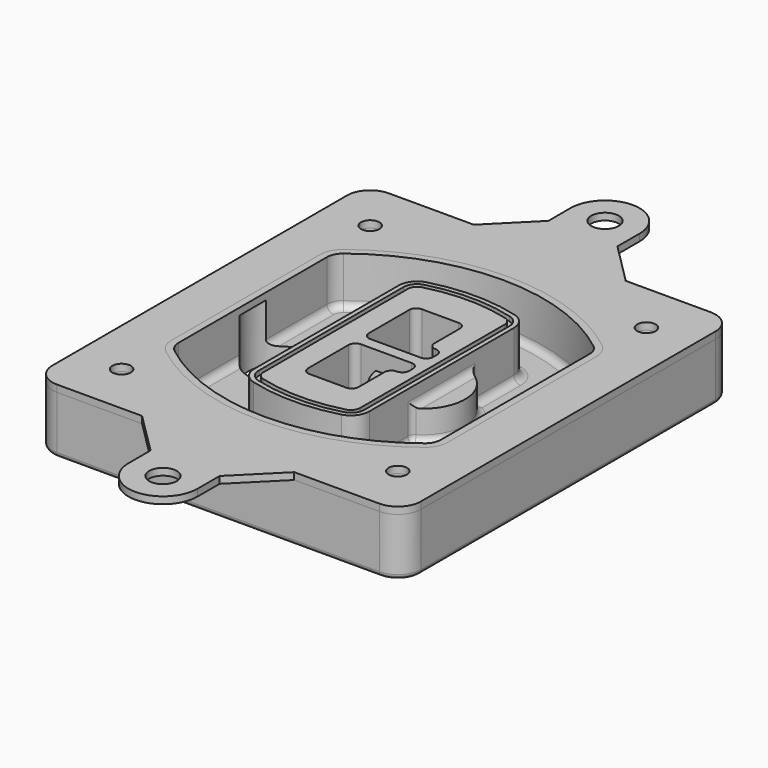
from build123d import *

# Parameters (mm, degrees)
F0_R      = 4
F1_DEPTH  = 25
F2_DEPTH  = 3
F3_DEPTH  = 18
F5_DEPTH  = 21
F6_DEPTH  = 2
F8_DEPTH  = 20
F9_DEPTH  = 16
F10_DEPTH = 25
F7_R      = 6
F7_R_2    = 4
F11_DEPTH = 6
F13_DEPTH = 9
F14_R     = 3
F15_R     = 2
F16_R     = 6
F16_R_2   = 4
F17_DEPTH = 3


with BuildPart() as f1:
    # F0 (on Top) → F1 (new body)
    with BuildSketch(Plane.XY):
        with BuildLine():
            ThreePointArc((-80, -80), (-77.0710678119, -87.0710678119), (-70, -90))
            Line((-70, -90), (70, -90))
            ThreePointArc((70, -90), (77.0710678119, -87.0710678119), (80, -80))
            Line((80, -80), (80, 80))
            ThreePointArc((80, 80), (77.0710678119, 87.0710678119), (70, 90))
            Line((70, 90), (-70, 90))
            ThreePointArc((-70, 90), (-77.0710678119, 87.0710678119), (-80, 80))
            Line((-80, 80), (-80, -80))
        make_face()
        with Locations((-60, -67.5)):
            Circle(F0_R, mode=Mode.SUBTRACT)
        with Locations((60, -67.5)):
            Circle(F0_R, mode=Mode.SUBTRACT)
        with Locations((-60, 67.5)):
            Circle(F0_R, mode=Mode.SUBTRACT)
        with BuildLine():
            ThreePointArc((-64, 40.2934422872), (-62.5820384798, 46.4328484224), (-58.6153846154, 51.3286200352))
            ThreePointArc((-58.6153846154, 51.3286200352), (0, 71.5), (58.6153846154, 51.3286200352))
            ThreePointArc((58.6153846154, 51.3286200352), (62.5820384798, 46.4328484224), (64, 40.2934422872))
            Line((64, 40.2934422872), (64, -40.2934422872))
            ThreePointArc((64, -40.2934422872), (62.5820384798, -46.4328484224), (58.6153846154, -51.3286200352))
            ThreePointArc((58.6153846154, -51.3286200352), (0, -71.5), (-58.6153846154, -51.3286200352))
            ThreePointArc((-58.6153846154, -51.3286200352), (-62.5820384798, -46.4328484224), (-64, -40.2934422872))
            Line((-64, -40.2934422872), (-64, 40.2934422872))
        make_face(mode=Mode.SUBTRACT)
        with Locations((60, 67.5)):
            Circle(F0_R, mode=Mode.SUBTRACT)
        with BuildLine():
            ThreePointArc((58.6153846154, 51.3286200352), (0, 71.5), (-58.6153846154, 51.3286200352))
            ThreePointArc((-58.6153846154, 51.3286200352), (-62.5820384798, 46.4328484224), (-64, 40.2934422872))
            Line((-64, 40.2934422872), (-64, -40.2934422872))
            ThreePointArc((-64, -40.2934422872), (-62.5820384798, -46.4328484224), (-58.6153846154, -51.3286200352))
            ThreePointArc((-58.6153846154, -51.3286200352), (0, -71.5), (58.6153846154, -51.3286200352))
            ThreePointArc((58.6153846154, -51.3286200352), (62.5820384798, -46.4328484224), (64, -40.2934422872))
            Line((64, -40.2934422872), (64, 40.2934422872))
            ThreePointArc((64, 40.2934422872), (62.5820384798, 46.4328484224), (58.6153846154, 51.3286200352))
        make_face()
        with BuildLine():
            Line((-60, -40.2934422872), (-60, 40.2934422872))
            ThreePointArc((-60, 40.2934422872), (-58.9871703427, 44.6787323838), (-56.1538461538, 48.1757121072))
            ThreePointArc((-56.1538461538, 48.1757121072), (0, 67.5), (56.1538461538, 48.1757121072))
            ThreePointArc((56.1538461538, 48.1757121072), (58.9871703427, 44.6787323838), (60, 40.2934422872))
            Line((60, 40.2934422872), (60, -40.2934422872))
            ThreePointArc((60, -40.2934422872), (58.9871703427, -44.6787323838), (56.1538461538, -48.1757121072))
            ThreePointArc((56.1538461538, -48.1757121072), (0, -67.5), (-56.1538461538, -48.1757121072))
            ThreePointArc((-56.1538461538, -48.1757121072), (-58.9871703427, -44.6787323838), (-60, -40.2934422872))
        make_face(mode=Mode.SUBTRACT)
        with BuildLine():
            ThreePointArc((-56.1538461538, 48.1757121072), (-58.9871703427, 44.6787323838), (-60, 40.2934422872))
            Line((-60, 40.2934422872), (-60, -40.2934422872))
            ThreePointArc((-60, -40.2934422872), (-58.9871703427, -44.6787323838), (-56.1538461538, -48.1757121072))
            ThreePointArc((-56.1538461538, -48.1757121072), (0, -67.5), (56.1538461538, -48.1757121072))
            ThreePointArc((56.1538461538, -48.1757121072), (58.9871703427, -44.6787323838), (60, -40.2934422872))
            Line((60, -40.2934422872), (60, 40.2934422872))
            ThreePointArc((60, 40.2934422872), (58.9871703427, 44.6787323838), (56.1538461538, 48.1757121072))
            ThreePointArc((56.1538461538, 48.1757121072), (0, 67.5), (-56.1538461538, 48.1757121072))
        make_face()
        with BuildLine():
            ThreePointArc((54.3076923077, 45.8110311612), (56.2910192399, 43.3631453548), (57, 40.2934422872))
            Line((57, 40.2934422872), (57, -40.2934422872))
            ThreePointArc((57, -40.2934422872), (56.2910192399, -43.3631453548), (54.3076923077, -45.8110311612))
            ThreePointArc((54.3076923077, -45.8110311612), (0, -64.5), (-54.3076923077, -45.8110311612))
            ThreePointArc((-54.3076923077, -45.8110311612), (-56.2910192399, -43.3631453548), (-57, -40.2934422872))
            Line((-57, -40.2934422872), (-57, 40.2934422872))
            ThreePointArc((-57, 40.2934422872), (-56.2910192399, 43.3631453548), (-54.3076923077, 45.8110311612))
            ThreePointArc((-54.3076923077, 45.8110311612), (0, 64.5), (54.3076923077, 45.8110311612))
        make_face(mode=Mode.SUBTRACT)
        with BuildLine():
            Line((57, -40.2934422872), (57, 40.2934422872))
            ThreePointArc((57, 40.2934422872), (56.2910192399, 43.3631453548), (54.3076923077, 45.8110311612))
            ThreePointArc((54.3076923077, 45.8110311612), (0, 64.5), (-54.3076923077, 45.8110311612))
            ThreePointArc((-54.3076923077, 45.8110311612), (-56.2910192399, 43.3631453548), (-57, 40.2934422872))
            Line((-57, 40.2934422872), (-57, -40.2934422872))
            ThreePointArc((-57, -40.2934422872), (-56.2910192399, -43.3631453548), (-54.3076923077, -45.8110311612))
            ThreePointArc((-54.3076923077, -45.8110311612), (0, -64.5), (54.3076923077, -45.8110311612))
            ThreePointArc((54.3076923077, -45.8110311612), (56.2910192399, -43.3631453548), (57, -40.2934422872))
        make_face()
    extrude(amount=-F1_DEPTH)

    # F0 (on Top) → F2 (join)
    with BuildSketch(Plane.XY):
        with BuildLine():
            ThreePointArc((-56.1538461538, 48.1757121072), (-58.9871703427, 44.6787323838), (-60, 40.2934422872))
            Line((-60, 40.2934422872), (-60, -40.2934422872))
            ThreePointArc((-60, -40.2934422872), (-58.9871703427, -44.6787323838), (-56.1538461538, -48.1757121072))
            ThreePointArc((-56.1538461538, -48.1757121072), (0, -67.5), (56.1538461538, -48.1757121072))
            ThreePointArc((56.1538461538, -48.1757121072), (58.9871703427, -44.6787323838), (60, -40.2934422872))
            Line((60, -40.2934422872), (60, 40.2934422872))
            ThreePointArc((60, 40.2934422872), (58.9871703427, 44.6787323838), (56.1538461538, 48.1757121072))
            ThreePointArc((56.1538461538, 48.1757121072), (0, 67.5), (-56.1538461538, 48.1757121072))
        make_face()
        with BuildLine():
            ThreePointArc((54.3076923077, 45.8110311612), (56.2910192399, 43.3631453548), (57, 40.2934422872))
            Line((57, 40.2934422872), (57, -40.2934422872))
            ThreePointArc((57, -40.2934422872), (56.2910192399, -43.3631453548), (54.3076923077, -45.8110311612))
            ThreePointArc((54.3076923077, -45.8110311612), (0, -64.5), (-54.3076923077, -45.8110311612))
            ThreePointArc((-54.3076923077, -45.8110311612), (-56.2910192399, -43.3631453548), (-57, -40.2934422872))
            Line((-57, -40.2934422872), (-57, 40.2934422872))
            ThreePointArc((-57, 40.2934422872), (-56.2910192399, 43.3631453548), (-54.3076923077, 45.8110311612))
            ThreePointArc((-54.3076923077, 45.8110311612), (0, 64.5), (54.3076923077, 45.8110311612))
        make_face(mode=Mode.SUBTRACT)
    extrude(amount=F2_DEPTH)

    # F0 (on Top) → F3 (cut)
    with BuildSketch(Plane.XY):
        with BuildLine():
            Line((57, -40.2934422872), (57, 40.2934422872))
            ThreePointArc((57, 40.2934422872), (56.2910192399, 43.3631453548), (54.3076923077, 45.8110311612))
            ThreePointArc((54.3076923077, 45.8110311612), (0, 64.5), (-54.3076923077, 45.8110311612))
            ThreePointArc((-54.3076923077, 45.8110311612), (-56.2910192399, 43.3631453548), (-57, 40.2934422872))
            Line((-57, 40.2934422872), (-57, -40.2934422872))
            ThreePointArc((-57, -40.2934422872), (-56.2910192399, -43.3631453548), (-54.3076923077, -45.8110311612))
            ThreePointArc((-54.3076923077, -45.8110311612), (0, -64.5), (54.3076923077, -45.8110311612))
            ThreePointArc((54.3076923077, -45.8110311612), (56.2910192399, -43.3631453548), (57, -40.2934422872))
        make_face()
    extrude(amount=-F3_DEPTH, mode=Mode.SUBTRACT)

    # F4 (on face) → F5 (join, through all)
    with BuildSketch(Plane.XY.offset(3)):
        with BuildLine():
            ThreePointArc((-25, -39.2465276821), (-23.3511545998, -44.1109737193), (-19.0842911877, -46.9702398883))
            ThreePointArc((-19.0842911877, -46.9702398883), (0, -49.5), (19.0842911877, -46.9702398883))
            ThreePointArc((19.0842911877, -46.9702398883), (23.3511545998, -44.1109737193), (25, -39.2465276821))
            Line((25, -39.2465276821), (25, 39.2465276821))
            ThreePointArc((25, 39.2465276821), (23.3511545998, 44.1109737193), (19.0842911877, 46.9702398883))
            ThreePointArc((19.0842911877, 46.9702398883), (0, 49.5), (-19.0842911877, 46.9702398883))
            ThreePointArc((-19.0842911877, 46.9702398883), (-23.3511545998, 44.1109737193), (-25, 39.2465276821))
            Line((-25, 39.2465276821), (-25, -39.2465276821))
        make_face()
        with BuildLine():
            ThreePointArc((18.5632183908, 45.0393118368), (21.7633659499, 42.89486221), (23, 39.2465276821))
            Line((23, 39.2465276821), (23, -39.2465276821))
            ThreePointArc((23, -39.2465276821), (21.7633659499, -42.89486221), (18.5632183908, -45.0393118368))
            ThreePointArc((18.5632183908, -45.0393118368), (0, -47.5), (-18.5632183908, -45.0393118368))
            ThreePointArc((-18.5632183908, -45.0393118368), (-21.7633659499, -42.89486221), (-23, -39.2465276821))
            Line((-23, -39.2465276821), (-23, 39.2465276821))
            ThreePointArc((-23, 39.2465276821), (-21.7633659499, 42.89486221), (-18.5632183908, 45.0393118368))
            ThreePointArc((-18.5632183908, 45.0393118368), (0, 47.5), (18.5632183908, 45.0393118368))
        make_face(mode=Mode.SUBTRACT)
        with BuildLine():
            Line((23, -39.2465276821), (23, 39.2465276821))
            ThreePointArc((23, 39.2465276821), (21.7633659499, 42.89486221), (18.5632183908, 45.0393118368))
            ThreePointArc((18.5632183908, 45.0393118368), (0, 47.5), (-18.5632183908, 45.0393118368))
            ThreePointArc((-18.5632183908, 45.0393118368), (-21.7633659499, 42.89486221), (-23, 39.2465276821))
            Line((-23, 39.2465276821), (-23, -39.2465276821))
            ThreePointArc((-23, -39.2465276821), (-21.7633659499, -42.89486221), (-18.5632183908, -45.0393118368))
            ThreePointArc((-18.5632183908, -45.0393118368), (0, -47.5), (18.5632183908, -45.0393118368))
            ThreePointArc((18.5632183908, -45.0393118368), (21.7633659499, -42.89486221), (23, -39.2465276821))
        make_face()
        with BuildLine():
            ThreePointArc((18.0421455939, 43.1083837852), (20.1755772999, 41.6787507007), (21, 39.2465276821))
            Line((21, 39.2465276821), (21, -39.2465276821))
            ThreePointArc((21, -39.2465276821), (20.1755772999, -41.6787507007), (18.0421455939, -43.1083837852))
            ThreePointArc((18.0421455939, -43.1083837852), (0, -45.5), (-18.0421455939, -43.1083837852))
            ThreePointArc((-18.0421455939, -43.1083837852), (-20.1755772999, -41.6787507007), (-21, -39.2465276821))
            Line((-21, -39.2465276821), (-21, 39.2465276821))
            ThreePointArc((-21, 39.2465276821), (-20.1755772999, 41.6787507007), (-18.0421455939, 43.1083837852))
            ThreePointArc((-18.0421455939, 43.1083837852), (0, 45.5), (18.0421455939, 43.1083837852))
        make_face(mode=Mode.SUBTRACT)
        with BuildLine():
            Line((21, -39.2465276821), (21, 39.2465276821))
            ThreePointArc((21, 39.2465276821), (20.1755772999, 41.6787507007), (18.0421455939, 43.1083837852))
            ThreePointArc((18.0421455939, 43.1083837852), (0, 45.5), (-18.0421455939, 43.1083837852))
            ThreePointArc((-18.0421455939, 43.1083837852), (-20.1755772999, 41.6787507007), (-21, 39.2465276821))
            Line((-21, 39.2465276821), (-21, -39.2465276821))
            ThreePointArc((-21, -39.2465276821), (-20.1755772999, -41.6787507007), (-18.0421455939, -43.1083837852))
            ThreePointArc((-18.0421455939, -43.1083837852), (0, -45.5), (18.0421455939, -43.1083837852))
            ThreePointArc((18.0421455939, -43.1083837852), (20.1755772999, -41.6787507007), (21, -39.2465276821))
        make_face()
        with BuildLine():
            Line((-8, -2.5), (14, -2.5))
            ThreePointArc((14, -2.5), (16.1213203436, -3.3786796564), (17, -5.5))
            Line((17, -5.5), (17, -7.5))
            ThreePointArc((17, -7.5), (16.1213203436, -9.6213203436), (14, -10.5))
            ThreePointArc((14, -10.5), (11.8786796564, -11.3786796564), (11, -13.5))
            Line((11, -13.5), (11, -27.5))
            ThreePointArc((11, -27.5), (10.1213203436, -29.6213203436), (8, -30.5))
            Line((8, -30.5), (-8, -30.5))
            ThreePointArc((-8, -30.5), (-10.1213203436, -29.6213203436), (-11, -27.5))
            Line((-11, -27.5), (-11, -5.5))
            ThreePointArc((-11, -5.5), (-10.1213203436, -3.3786796564), (-8, -2.5))
        make_face(mode=Mode.SUBTRACT)
        with BuildLine():
            ThreePointArc((-8, 2.5), (-10.1213203436, 3.3786796564), (-11, 5.5))
            Line((-11, 5.5), (-11, 27.5))
            ThreePointArc((-11, 27.5), (-10.1213203436, 29.6213203436), (-8, 30.5))
            Line((-8, 30.5), (8, 30.5))
            ThreePointArc((8, 30.5), (10.1213203436, 29.6213203436), (11, 27.5))
            Line((11, 27.5), (11, 13.5))
            ThreePointArc((11, 13.5), (11.8786796564, 11.3786796564), (14, 10.5))
            ThreePointArc((14, 10.5), (16.1213203436, 9.6213203436), (17, 7.5))
            Line((17, 7.5), (17, 5.5))
            ThreePointArc((17, 5.5), (16.1213203436, 3.3786796564), (14, 2.5))
            Line((14, 2.5), (-8, 2.5))
        make_face(mode=Mode.SUBTRACT)
    extrude(amount=-F5_DEPTH)

    # F4 (on face) → F6 (cut)
    with BuildSketch(Plane.XY.offset(3)):
        with BuildLine():
            Line((23, -39.2465276821), (23, 39.2465276821))
            ThreePointArc((23, 39.2465276821), (21.7633659499, 42.89486221), (18.5632183908, 45.0393118368))
            ThreePointArc((18.5632183908, 45.0393118368), (0, 47.5), (-18.5632183908, 45.0393118368))
            ThreePointArc((-18.5632183908, 45.0393118368), (-21.7633659499, 42.89486221), (-23, 39.2465276821))
            Line((-23, 39.2465276821), (-23, -39.2465276821))
            ThreePointArc((-23, -39.2465276821), (-21.7633659499, -42.89486221), (-18.5632183908, -45.0393118368))
            ThreePointArc((-18.5632183908, -45.0393118368), (0, -47.5), (18.5632183908, -45.0393118368))
            ThreePointArc((18.5632183908, -45.0393118368), (21.7633659499, -42.89486221), (23, -39.2465276821))
        make_face()
        with BuildLine():
            ThreePointArc((18.0421455939, 43.1083837852), (20.1755772999, 41.6787507007), (21, 39.2465276821))
            Line((21, 39.2465276821), (21, -39.2465276821))
            ThreePointArc((21, -39.2465276821), (20.1755772999, -41.6787507007), (18.0421455939, -43.1083837852))
            ThreePointArc((18.0421455939, -43.1083837852), (0, -45.5), (-18.0421455939, -43.1083837852))
            ThreePointArc((-18.0421455939, -43.1083837852), (-20.1755772999, -41.6787507007), (-21, -39.2465276821))
            Line((-21, -39.2465276821), (-21, 39.2465276821))
            ThreePointArc((-21, 39.2465276821), (-20.1755772999, 41.6787507007), (-18.0421455939, 43.1083837852))
            ThreePointArc((-18.0421455939, 43.1083837852), (0, 45.5), (18.0421455939, 43.1083837852))
        make_face(mode=Mode.SUBTRACT)
    extrude(amount=-F6_DEPTH, mode=Mode.SUBTRACT)

    # F7 (on face) → F8 (join)
    with BuildSketch(Plane(origin=(0, 0, -25), x_dir=(1, 0, 0), z_dir=(0, 0, -1))):
        with BuildLine():
            ThreePointArc((3.28842436, 0), (16.7567035675, 13.4682792075), (30.224982775, 0))
            Line((30.224982775, 0), (35.224982775, 0))
            ThreePointArc((35.224982775, 0), (16.7567035675, 18.4682792075), (-1.71157564, 0))
            Line((-1.71157564, 0), (3.28842436, 0))
        make_face()
        with BuildLine():
            Line((3.28842436, 0), (30.224982775, 0))
            ThreePointArc((30.224982775, 0), (16.7567035675, 13.4682792075), (3.28842436, 0))
        make_face()
        with BuildLine():
            ThreePointArc((3.28842436, 0), (16.7567035675, -13.4682792075), (30.224982775, 0))
            Line((30.224982775, 0), (3.28842436, 0))
        make_face()
        with BuildLine():
            Line((35.224982775, 0), (30.224982775, 0))
            ThreePointArc((30.224982775, 0), (16.7567035675, -13.4682792075), (3.28842436, 0))
            Line((3.28842436, 0), (-1.71157564, 0))
            ThreePointArc((-1.71157564, 0), (16.7567035675, -18.4682792075), (35.224982775, 0))
        make_face()
    extrude(amount=-F8_DEPTH)

    # F7 (on face) → F9 (cut)
    with BuildSketch(Plane(origin=(0, 0, -25), x_dir=(1, 0, 0), z_dir=(0, 0, -1))):
        with BuildLine():
            Line((3.28842436, 0), (30.224982775, 0))
            ThreePointArc((30.224982775, 0), (16.7567035675, 13.4682792075), (3.28842436, 0))
        make_face()
        with BuildLine():
            ThreePointArc((3.28842436, 0), (16.7567035675, -13.4682792075), (30.224982775, 0))
            Line((30.224982775, 0), (3.28842436, 0))
        make_face()
    extrude(amount=-F9_DEPTH, mode=Mode.SUBTRACT)

    # F7 (on face) → F10 (cut)
    with BuildSketch(Plane(origin=(0, 0, -25), x_dir=(1, 0, 0), z_dir=(0, 0, -1))):
        with BuildLine():
            Line((-59.0318229325, 0), (-32.0952645175, 0))
            ThreePointArc((-32.0952645175, 0), (-45.563543725, 13.4682792075), (-59.0318229325, 0))
        make_face()
        with BuildLine():
            ThreePointArc((-59.0318229325, 0), (-45.563543725, -13.4682792075), (-32.0952645175, 0))
            Line((-32.0952645175, 0), (-59.0318229325, 0))
        make_face()
    extrude(amount=-F10_DEPTH, mode=Mode.SUBTRACT)

    # F7 (on face) → F11 (cut)
    with BuildSketch(Plane(origin=(0, 0, -25), x_dir=(1, 0, 0), z_dir=(0, 0, -1))):
        with Locations((60, -67.5)):
            Circle(F7_R)
        with Locations((60, -67.5)):
            Circle(F7_R_2, mode=Mode.SUBTRACT)
        with Locations((60, -67.5)):
            Circle(F7_R)
        with Locations((60, -67.5)):
            Circle(F7_R_2, mode=Mode.SUBTRACT)
        with Locations((-60, -67.5)):
            Circle(F7_R)
        with Locations((-60, -67.5)):
            Circle(F7_R_2, mode=Mode.SUBTRACT)
        with Locations((-60, -67.5)):
            Circle(F7_R)
        with Locations((-60, -67.5)):
            Circle(F7_R_2, mode=Mode.SUBTRACT)
        with Locations((-60, 67.5)):
            Circle(F7_R)
        with Locations((-60, 67.5)):
            Circle(F7_R_2, mode=Mode.SUBTRACT)
        with Locations((-60, 67.5)):
            Circle(F7_R)
        with Locations((-60, 67.5)):
            Circle(F7_R_2, mode=Mode.SUBTRACT)
        with Locations((60, 67.5)):
            Circle(F7_R)
        with Locations((60, 67.5)):
            Circle(F7_R_2, mode=Mode.SUBTRACT)
        with Locations((60, 67.5)):
            Circle(F7_R)
        with Locations((60, 67.5)):
            Circle(F7_R_2, mode=Mode.SUBTRACT)
    extrude(amount=-F11_DEPTH, mode=Mode.SUBTRACT)

    # F12 (on face) → F13 (cut, through all)
    with BuildSketch(Plane(origin=(0, 0, -9), x_dir=(1, 0, 0), z_dir=(0, 0, -1))):
        with BuildLine():
            Line((11, 13.5), (11, 17.5481537753))
            ThreePointArc((11, 17.5481537753), (2.5696536419, 11.8239143813), (-1.5415842455, 2.5))
            Line((-1.5415842455, 2.5), (3.5224848595, 2.5))
            ThreePointArc((3.5224848595, 2.5), (6.1857188154, 8.3455872281), (11.2536447004, 12.2927168648))
            ThreePointArc((11.2536447004, 12.2927168648), (11.0640958889, 12.8831798879), (11, 13.5))
        make_face()
        with BuildLine():
            ThreePointArc((11.2536447004, -12.2927168648), (6.1857188154, -8.3455872281), (3.5224848595, -2.5))
            Line((3.5224848595, -2.5), (-1.5415842455, -2.5))
            ThreePointArc((-1.5415842455, -2.5), (2.5696536419, -11.8239143813), (11, -17.5481537753))
            Line((11, -17.5481537753), (11, -13.5))
            ThreePointArc((11, -13.5), (11.0640958889, -12.8831798879), (11.2536447004, -12.2927168648))
        make_face()
        with BuildLine():
            ThreePointArc((11.2536447004, 12.2927168648), (6.1857188154, 8.3455872281), (3.5224848595, 2.5))
            Line((3.5224848595, 2.5), (14, 2.5))
            ThreePointArc((14, 2.5), (16.1213203436, 3.3786796564), (17, 5.5))
            Line((17, 5.5), (17, 7.5))
            ThreePointArc((17, 7.5), (16.1213203436, 9.6213203436), (14, 10.5))
            ThreePointArc((14, 10.5), (12.3601599782, 10.9878446101), (11.2536447004, 12.2927168648))
        make_face()
        with BuildLine():
            Line((14, -2.5), (3.5224848595, -2.5))
            ThreePointArc((3.5224848595, -2.5), (6.1857188154, -8.3455872281), (11.2536447004, -12.2927168648))
            ThreePointArc((11.2536447004, -12.2927168648), (12.3601599782, -10.9878446101), (14, -10.5))
            ThreePointArc((14, -10.5), (16.1213203436, -9.6213203436), (17, -7.5))
            Line((17, -7.5), (17, -5.5))
            ThreePointArc((17, -5.5), (16.1213203436, -3.3786796564), (14, -2.5))
        make_face()
    extrude(amount=F13_DEPTH, mode=Mode.SUBTRACT)

    # F14
    f14_edges = [f1.edges().sort_by_distance(p)[0] for p in [
        (-57, -23.703476, -18),
        (-57, 23.703476, -18),
        (25, 0, -5),
        (25, 16.526506, -11.5),
        (25, -16.526506, -11.5),
        (25, -27.886517, -18),
        (35.224983, 0, -18),
    ]]
    fillet(f14_edges, radius=F14_R)

    # F15
    f15_edges = [f1.edges().sort_by_distance(p)[0] for p in [
        (0, -90, -25),
    ]]
    fillet(f15_edges, radius=F15_R)


with BuildPart() as f17:
    # F16 (on face) → F17 (new body, through all)
    with BuildSketch(Plane.XY):
        with BuildLine():
            Line((-15, 108), (-33, 90))
            Line((-33, 90), (33, 90))
            Line((33, 90), (15, 108))
            Line((15, 108), (15, 120))
            ThreePointArc((15, 120), (0, 135), (-15, 120))
            Line((-15, 120), (-15, 108))
        make_face()
        with Locations((0, 120)):
            Circle(F16_R, mode=Mode.SUBTRACT)
        with BuildLine():
            Line((33, 90), (-33, 90))
            Line((-33, 90), (-33.0924573988, 90))
            Line((-33.0924573988, 90), (-70, 90))
            ThreePointArc((-70, 90), (-77.0710678119, 87.0710678119), (-80, 80))
            Line((-80, 80), (-80, -80))
            ThreePointArc((-80, -80), (-77.0710678119, -87.0710678119), (-70, -90))
            Line((-70, -90), (-33.0924573988, -90))
            Line((-33.0924573988, -90), (33, -90))
            Line((33, -90), (70, -90))
            ThreePointArc((70, -90), (77.0710678119, -87.0710678119), (80, -80))
            Line((80, -80), (80, 80))
            ThreePointArc((80, 80), (77.0710678119, 87.0710678119), (70, 90))
            Line((70, 90), (33.0924573988, 90))
            Line((33.0924573988, 90), (33, 90))
        make_face()
        with Locations((-60, -67.5)):
            Circle(F16_R_2, mode=Mode.SUBTRACT)
        with Locations((60, -67.5)):
            Circle(F16_R_2, mode=Mode.SUBTRACT)
        with Locations((-60, 67.5)):
            Circle(F16_R_2, mode=Mode.SUBTRACT)
        with BuildLine():
            ThreePointArc((-60, 40.2934422872), (-58.9871703427, 44.6787323838), (-56.1538461538, 48.1757121072))
            ThreePointArc((-56.1538461538, 48.1757121072), (0, 67.5), (56.1538461538, 48.1757121072))
            ThreePointArc((56.1538461538, 48.1757121072), (58.9871703427, 44.6787323838), (60, 40.2934422872))
            Line((60, 40.2934422872), (60, -40.2934422872))
            ThreePointArc((60, -40.2934422872), (58.9871703427, -44.6787323838), (56.1538461538, -48.1757121072))
            ThreePointArc((56.1538461538, -48.1757121072), (0, -67.5), (-56.1538461538, -48.1757121072))
            ThreePointArc((-56.1538461538, -48.1757121072), (-58.9871703427, -44.6787323838), (-60, -40.2934422872))
            Line((-60, -40.2934422872), (-60, 40.2934422872))
        make_face(mode=Mode.SUBTRACT)
        with Locations((60, 67.5)):
            Circle(F16_R_2, mode=Mode.SUBTRACT)
        with BuildLine():
            Line((33, -90), (-33.0924573988, -90))
            Line((-33.0924573988, -90), (-15, -108))
            Line((-15, -108), (-15, -120))
            ThreePointArc((-15, -120), (0, -135), (15, -120))
            Line((15, -120), (15, -108))
            Line((15, -108), (33, -90))
        make_face()
        with Locations((0, -120)):
            Circle(F16_R, mode=Mode.SUBTRACT)
    extrude(amount=F17_DEPTH)


solid = Compound([f1.part, f17.part])
